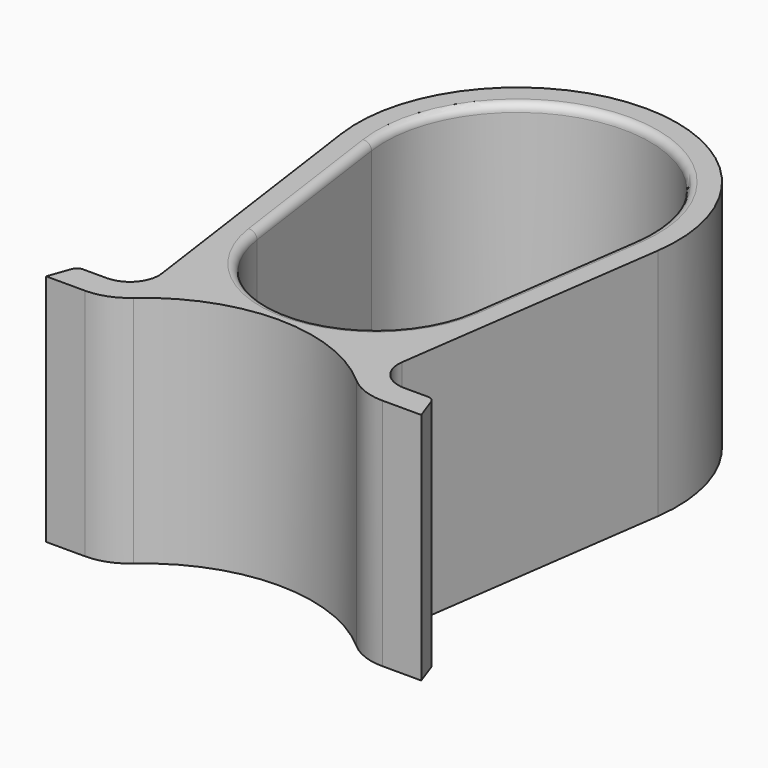
from build123d import *

# Parameters (mm, degrees)
PAD_DEPTH = 120
FILLET_R  = 4


with BuildPart() as part:
    # Sketch → Pad (new body)
    with BuildSketch(Plane.XY):
        with BuildLine():
            ThreePointArc((81.205589, 163.61348), (0, 257.000003), (-81.205589, 163.61348))
            Line((-61.604046, 23.818887), (-81.205589, 163.61348))
            ThreePointArc((-76.312668, 7.000001), (-65.141069, 12.071111), (-61.604046, 23.818887))
            Line((-76.312668, 7.000001), (-91.312668, 7.000001))
            Line((-91.312668, 7.000001), (-96.311409, -6.989133))
            Line((-76.311409, -6.989133), (-96.311409, -6.989133))
            ThreePointArc((-76.311409, -6.989133), (-66.118961, -5.12685), (-57.243123, 0.218577))
            ThreePointArc((57.192961, 0.198819), (-0.021346, 21.841028), (-57.243123, 0.218577))
            ThreePointArc((57.192961, 0.198819), (66.053148, -5.140178), (76.229044, -6.999999))
            Line((76.229044, -6.999999), (96.229044, -6.999999))
            Line((91.229042, 7.000001), (96.229044, -6.999999))
            Line((76.229042, 7.000001), (91.229042, 7.000001))
            ThreePointArc((61.603815, 23.818922), (65.084835, 12.077624), (76.229042, 7.000001))
            Line((81.205589, 163.61348), (61.603815, 23.818922))
        make_face()
        with BuildLine():
            ThreePointArc((67.341217, 165.557526), (0, 243.000004), (-67.341217, 165.557526))
            Line((-67.341217, 165.557526), (-54.868226, 76.553143))
            ThreePointArc((-54.868226, 76.553143), (-0.005687, 28.841012), (54.860565, 76.548873))
            Line((67.341217, 165.557526), (54.860565, 76.548873))
        make_face(mode=Mode.SUBTRACT)
    extrude(amount=PAD_DEPTH)

    # Fillet
    fillet_edges = [part.edges().sort_by_distance(p)[0] for p in [
        (-54.868226, 76.553143, 60),
        (54.860565, 76.548873, 60),
        (-0.005687, 28.841012, 0),
        (-0.005687, 28.841012, 120),
        (-67.341217, 165.557526, 60),
        (-61.104722, 121.055334, 0),
        (-61.104722, 121.055334, 120),
        (67.341217, 165.557526, 60),
        (0, 243.000004, 0),
        (0, 243.000004, 120),
        (61.100891, 121.0532, 0),
        (61.100891, 121.0532, 120),
        (-91.312668, 7.000001, 60),
        (91.229042, 7.000001, 60),
    ]]
    fillet(fillet_edges, radius=FILLET_R)


solid = part.part
